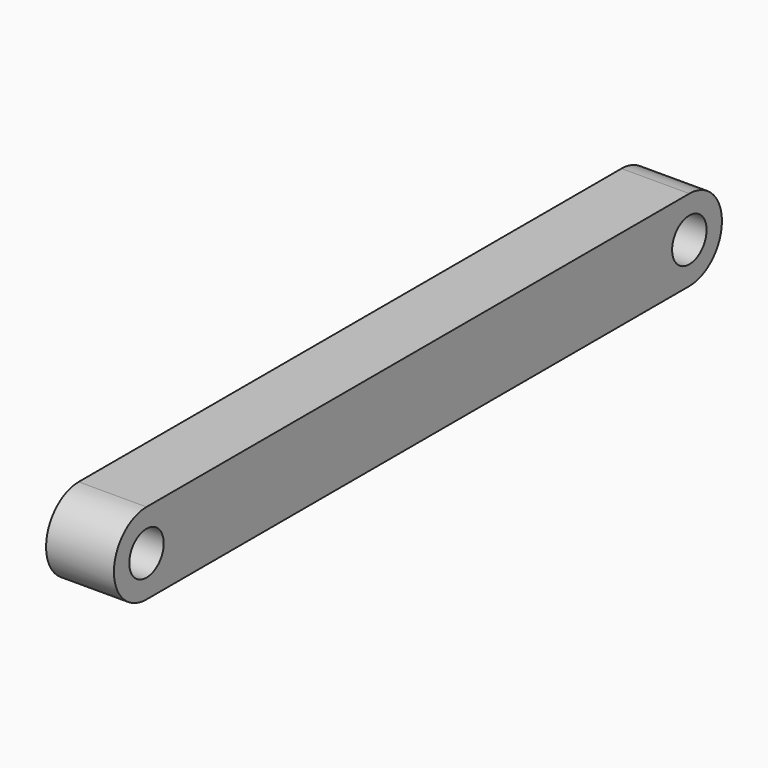
from build123d import *

# Parameters (mm, degrees)
F0_R     = 3.175
F1_DEPTH = 10


with BuildPart() as f1:
    # F0 (on Right) → F1 (new body)
    with BuildSketch(Plane.YZ):
        with BuildLine():
            Line((50, 6), (-50, 6))
            ThreePointArc((-50, 6), (-56, 0), (-50, -6))
            Line((-50, -6), (50, -6))
            ThreePointArc((50, -6), (56, 0), (50, 6))
        make_face()
        with Locations((-50, 0)):
            Circle(F0_R, mode=Mode.SUBTRACT)
        with Locations((50, 0)):
            Circle(F0_R, mode=Mode.SUBTRACT)
    extrude(amount=F1_DEPTH)


solid = f1.part
